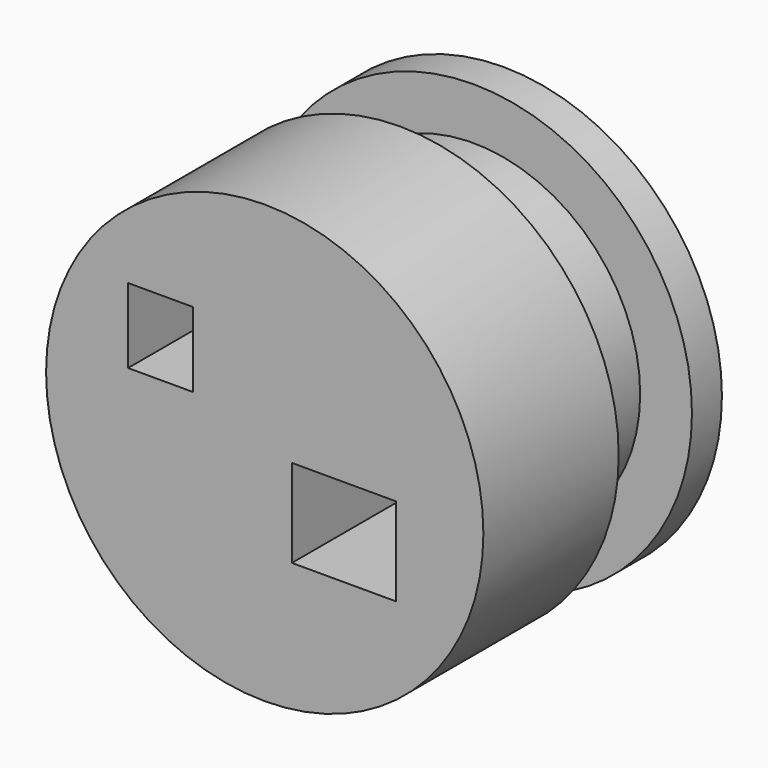
from build123d import *

# Parameters (mm, degrees)
F0_R     = 37.250135
F1_DEPTH = 50.8
F2_W     = 11.076774
F2_H     = 12.752968
F2_W_2   = 17.722838
F2_H_2   = 15.002562
F3_DEPTH = 50.8
F4_W     = 13.871703
F4_H     = 15.605667


with BuildPart() as f1:
    # F0 (on Front) → F1 (new body)
    with BuildSketch(Plane.XZ):
        Circle(F0_R)
    extrude(amount=F1_DEPTH)

    # F2 (on face) → F3 (cut)
    with BuildSketch(Plane.XZ.offset(50.8)):
        with Locations((-17.74689, 11.526265)):
            Rectangle(F2_W, F2_H)
        with Locations((13.489608, -7.501281)):
            Rectangle(F2_W_2, F2_H_2)
    extrude(amount=-F3_DEPTH, mode=Mode.SUBTRACT)

    # F4 (on Top) → F6 (revolve, cut)
    with BuildSketch(Plane.XY):
        with Locations((-35.360457, -14.181339)):
            Rectangle(F4_W, F4_H)
    revolve(axis=Axis((0, 18.854436, 0), (0, 1, 0)), mode=Mode.SUBTRACT)


solid = f1.part
